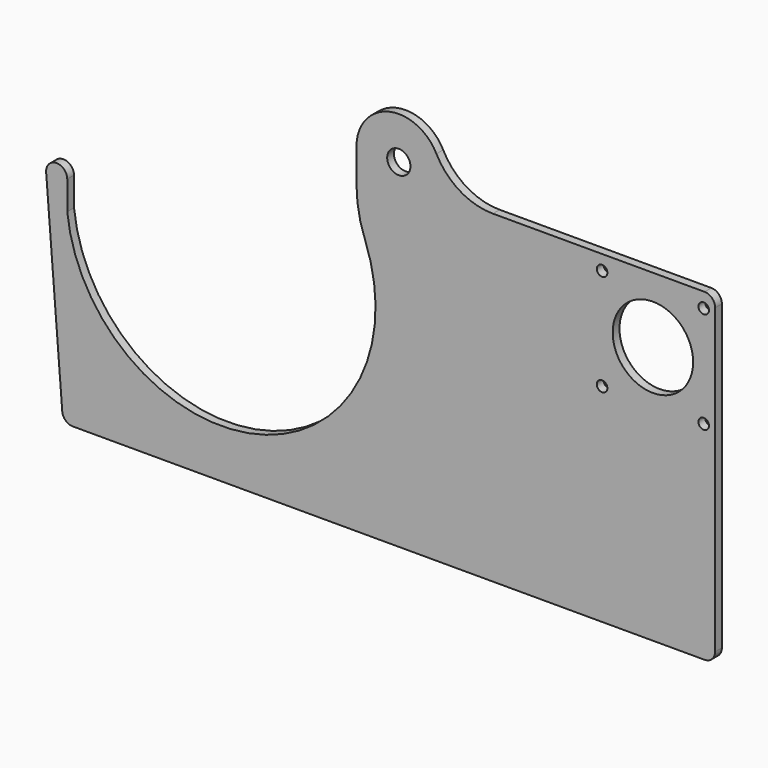
from build123d import *

# Parameters (mm, degrees)
PAD_DEPTH     = 4
SKETCH002_R   = 19
SKETCH002_R_2 = 2.5
SKETCH002_R_3 = 5.5
POCKET_DEPTH  = 4.001
FILLET001_R   = 5


with BuildPart() as part:
    # Sketch001 → Pad (new body)
    with BuildSketch(Plane.XZ):
        with BuildLine():
            Line((-82.604054, 6), (-74.604054, -96))
            Line((-74.604054, -96), (233.395946, -96))
            Line((233.395946, -96), (233.395946, 57))
            Line((233.395946, 57), (128.395946, 57))
            ThreePointArc((101.758378, 73.2), (112.807488, 61.367989), (128.395946, 57))
            ThreePointArc((101.758378, 73.2), (79.265423, 83.431515), (64, 64))
            Line((64, 64), (64, 48.093659))
            ThreePointArc((64, 48.093659), (65.023772, 37.057151), (68.06015, 26.397271))
            ThreePointArc((-72.604054, -7.592846), (17.146247, -70.957778), (68.06015, 26.397271))
            Line((-72.604054, 6), (-72.604054, -7.592846))
            ThreePointArc((-72.604054, 6), (-77.604054, 11), (-82.604054, 6))
        make_face()
    extrude(amount=PAD_DEPTH)

    # Sketch002 → Pocket (cut, through all)
    with BuildSketch(Plane.XZ.offset(4)):
        with Locations((204, 26)):
            Circle(SKETCH002_R)
        with Locations((180, 50)):
            Circle(SKETCH002_R_2)
        with Locations((228, 50)):
            Circle(SKETCH002_R_2)
        with Locations((228, 2)):
            Circle(SKETCH002_R_2)
        with Locations((180, 2)):
            Circle(SKETCH002_R_2)
        with Locations((84, 64)):
            Circle(SKETCH002_R_3)
    extrude(amount=-POCKET_DEPTH, mode=Mode.SUBTRACT)

    # Fillet001
    fillet001_edges = [part.edges().sort_by_distance(p)[0] for p in [
        (233.395946, -2, 57),
        (233.395946, -2, -96),
        (-74.604054, -2, -96),
    ]]
    fillet(fillet001_edges, radius=FILLET001_R)


with BuildPart() as part_1:
    # Body002 placement: moved
    add(part.part.moved(Location((0, -9, 0))))


solid = part_1.part
